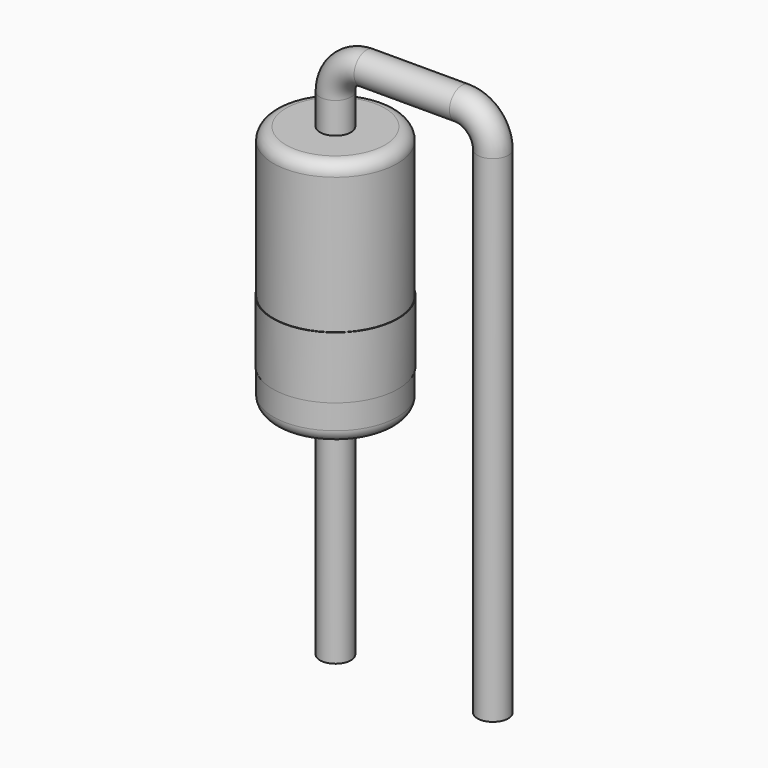
from build123d import *

# Parameters (mm, degrees)
SKETCH001_R = 0.25
SKETCH003_W = 0.02
SKETCH003_H = 1
SKETCH002_W = 1
SKETCH002_H = 4
FILLET_R    = 0.2


with BuildPart() as sweep_body:
    # Sweep: sweep along a path in Sketch
    with BuildLine(Plane.XZ) as sweep_path:
        Line((0, -3), (0, 5))
        ThreePointArc((0, 5), (0.146447, 5.353553), (0.5, 5.5))
        Line((0.5, 5.5), (2.04, 5.5))
        ThreePointArc((2.04, 5.5), (2.393553, 5.353553), (2.54, 5))
        Line((2.54, 5), (2.54, -3))
    # Sketch001 → Sweep (sweep)
    with BuildSketch(Plane.XY):
        Circle(SKETCH001_R)
    sweep(path=sweep_path.line)


with BuildPart() as revolution001:
    # Sketch003 → Revolution001 (revolve)
    with BuildSketch(Plane.XZ):
        with Locations((1, 1.6)):
            Rectangle(SKETCH003_W, SKETCH003_H)
    revolve(axis=Axis((0, 0, 5.9), (0, 0, 1)))


with BuildPart() as fillet_body:
    # Sketch002 → Revolution (revolve)
    with BuildSketch(Plane.XZ):
        with Locations((0.5, 2.5)):
            Rectangle(SKETCH002_W, SKETCH002_H)
    revolve(axis=Axis((0, 0, 0.5), (0, 0, 1)))

    # Fillet
    fillet_edges = [fillet_body.edges().sort_by_distance(p)[0] for p in [
        (-1, 0, 4.5),
        (-1, 0, 0.5),
    ]]
    fillet(fillet_edges, radius=FILLET_R)


solid = Compound([sweep_body.part, revolution001.part, fillet_body.part])
